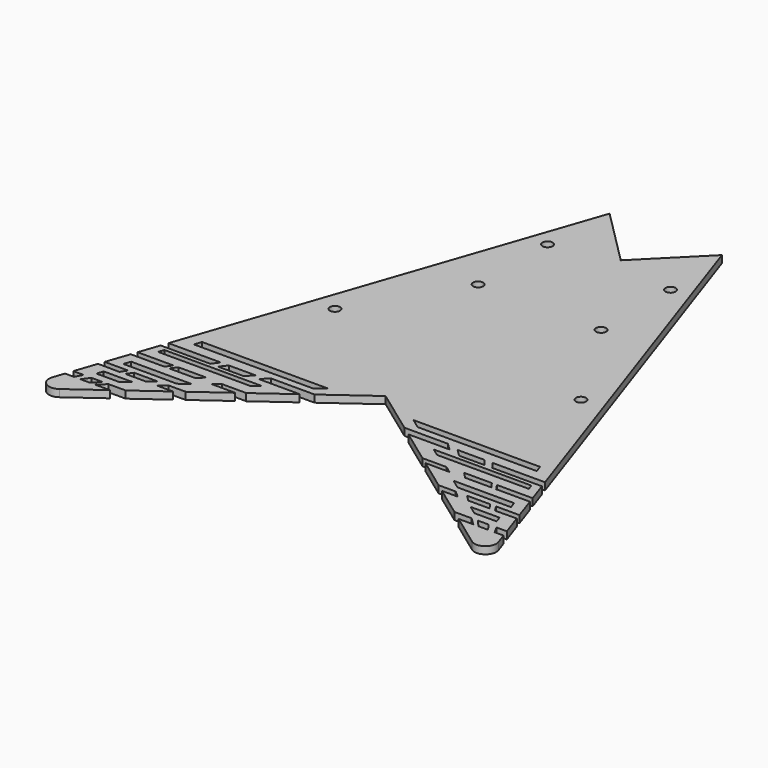
from build123d import *

# Parameters (mm, degrees)
F0_R     = 1.4
F1_DEPTH = 2
F3_DEPTH = 2.001
F4_R     = 3
F5_R     = 3
F7_DEPTH = 2.001


with BuildPart() as f1:
    # F0 (on Top) → F1 (new body)
    with BuildSketch(Plane.XY):
        Polygon((64.72135955, -47.0228201834), (0, 142.2155100196), (-64.72135955, -47.0228201834), (0, 0), align=None)
        with Locations((-34, 25)):
            Circle(F0_R, mode=Mode.SUBTRACT)
        with Locations((34, 25)):
            Circle(F0_R, mode=Mode.SUBTRACT)
        with Locations((-17, 53.2155100196)):
            Circle(F0_R, mode=Mode.SUBTRACT)
        with Locations((-17, 77.2155100196)):
            Circle(F0_R, mode=Mode.SUBTRACT)
        with Locations((17, 53.2155100196)):
            Circle(F0_R, mode=Mode.SUBTRACT)
        with Locations((17, 77.2155100196)):
            Circle(F0_R, mode=Mode.SUBTRACT)
    extrude(amount=F1_DEPTH)

    # F2 (on face) → F3 (cut, through all)
    with BuildSketch(Plane.XY.offset(2)):
        Polygon((-11.72135955, -5.0228201834), (-46.72135955, -5.0228201834), (-47.4053791086, -7.0228201834), (-14.4741233909, -7.0228201834), align=None)
        Polygon((-12.4188465721, -9.0228201834), (-24.4188465721, -9.0228201834), (-26.4198078873, -10.9094650687), (-15.0155904826, -10.9094650687), align=None)
        Polygon((-23.72135955, -13.0228201834), (-50.72135955, -13.0228201834), (-51.2508899541, -14.5711104259), (-25.8523982474, -14.5711104259), align=None)
        Polygon((-54.6096456252, -17.4572506108), (-55.1764262564, -19.1144565314), (-45.8653729736, -19.1144565314), (-44.7456995673, -17.4572506108), align=None)
        Polygon((-36.183078901, -21.7685099146), (-52.9450522033, -21.7685099146), (-53.5922657988, -23.6608932166), (-38.7877210645, -23.6608932166), align=None)
        Polygon((-57.329058215, -25.4085220489), (-57.8811639638, -27.0228201834), (-51.9252746689, -27.0915274002), (-50.8447687747, -25.4085220489), align=None)
        Polygon((-42.8185183528, -25.398144593), (-49.1967415728, -25.398144593), (-50.3631159663, -27.0228201834), (-44.4640927017, -27.0228201834), align=None)
        Polygon((-34.9575470313, -25.398144593), (-39.6975811287, -25.398144593), (-41.5776334703, -27.0228201834), (-37.1937211406, -27.0228201834), align=None)
        Polygon((-46.72135955, -29.0228201834), (-54.72135955, -29.0228201834), (-55.3310927131, -30.8056147116), (-49.1751657065, -30.8056147116), align=None)
        Polygon((-59.9332226396, -33.0228201834), (-60.6172421983, -35.0228201834), (-58.1569412289, -35.0228201834), (-57.0628715088, -33.0228201834), align=None)
        Polygon((-52.0519517882, -9.9788275021), (-52.6991653837, -11.8712108041), (-38.9741415612, -11.8712108041), (-37.5880427095, -9.9788275021), align=None)
        Polygon((-32.9459308027, -19.1144565314), (-26.3087923894, -19.1144565314), (-24.3671516029, -17.7037719259), (-31.0042900162, -17.7037719259), align=None)
        Polygon((-35.6436006209, -17.440581688), (-43.3317036365, -17.440581688), (-44.5420111982, -19.1144565314), (-37.288930104, -19.1144565314), align=None)
        Polygon((-51.8852360547, -33.0228201834), (-54.9353141808, -33.0228201834), (-56.3333206621, -35.0228201834), (-53.706107908, -35.0228201834), align=None)
        Polygon((-45.4520126634, -33.0228201834), (-50.1858113088, -33.0228201834), (-52.2623182004, -35.0228201834), (-48.2047765043, -35.0228201834), align=None)
        Polygon((-27.9032053004, -9.9788275021), (-35.3451147676, -9.9788275021), (-36.8457930443, -11.8712108041), (-29.7840517014, -11.8712108041), align=None)
        Polygon((24.3671516029, -17.7037719259), (26.3087923894, -19.1144565314), (32.9459308027, -19.1144565314), (31.0042900162, -17.7037719259), align=None)
        Polygon((46.72135955, -29.0228201834), (49.1751657065, -30.8056147116), (55.3310927131, -30.8056147116), (54.72135955, -29.0228201834), align=None)
        Polygon((54.6096456252, -17.4572506108), (44.7456995673, -17.4572506108), (45.8653729736, -19.1144565314), (55.1764262564, -19.1144565314), align=None)
        Polygon((53.5922657988, -23.6608932166), (52.9450522033, -21.7685099146), (36.183078901, -21.7685099146), (38.7877210645, -23.6608932166), align=None)
        Polygon((51.9252746689, -27.0915274002), (57.8811639638, -27.0228201834), (57.329058215, -25.4085220489), (50.8447687747, -25.4085220489), align=None)
        Polygon((51.8852360547, -33.0228201834), (53.706107908, -35.0228201834), (56.3333206621, -35.0228201834), (54.9353141808, -33.0228201834), align=None)
        Polygon((34.9575470313, -25.398144593), (37.1937211406, -27.0228201834), (41.5776334703, -27.0228201834), (39.6975811287, -25.398144593), align=None)
        Polygon((50.1858113088, -33.0228201834), (45.4520126634, -33.0228201834), (48.2047765043, -35.0228201834), (52.2623182004, -35.0228201834), align=None)
        Polygon((26.4198078873, -10.9094650687), (24.4188465721, -9.0228201834), (12.4188465721, -9.0228201834), (15.0155904826, -10.9094650687), align=None)
        Polygon((44.4640927017, -27.0228201834), (50.3631159663, -27.0228201834), (49.1967415728, -25.398144593), (42.8185183528, -25.398144593), align=None)
        Polygon((36.8457930443, -11.8712108041), (35.3451147676, -9.9788275021), (27.9032053004, -9.9788275021), (29.7840517014, -11.8712108041), align=None)
        Polygon((52.0519517882, -9.9788275021), (37.5880427095, -9.9788275021), (38.9741415612, -11.8712108041), (52.6991653837, -11.8712108041), align=None)
        Polygon((43.3317036365, -17.440581688), (35.6436006209, -17.440581688), (37.288930104, -19.1144565314), (44.5420111982, -19.1144565314), align=None)
        Polygon((47.4053791086, -7.0228201834), (46.72135955, -5.0228201834), (11.72135955, -5.0228201834), (14.4741233909, -7.0228201834), align=None)
        Polygon((51.2508899541, -14.5711104259), (50.72135955, -13.0228201834), (23.72135955, -13.0228201834), (25.8523982474, -14.5711104259), align=None)
        Polygon((60.6172421983, -35.0228201834), (59.9332226396, -33.0228201834), (57.0628715088, -33.0228201834), (58.1569412289, -35.0228201834), align=None)
    extrude(amount=-F3_DEPTH, mode=Mode.SUBTRACT)

    # F4
    f4_edges = [f1.edges().sort_by_distance(p)[0] for p in [
        (-64.72136, -47.02282, 1),
    ]]
    fillet(f4_edges, radius=F4_R)

    # F5
    f5_edges = [f1.edges().sort_by_distance(p)[0] for p in [
        (64.72136, -47.02282, 1),
    ]]
    fillet(f5_edges, radius=F5_R)

    # F6 (on face) → F7 (cut, through all)
    with BuildSketch(Plane.XY.offset(2)):
        Polygon((-15.5259804046, 96.8192045811), (0, 81.2669247389), (15.5259804046, 96.8192045811), (0, 142.2155100196), align=None)
    extrude(amount=-F7_DEPTH, mode=Mode.SUBTRACT)


solid = f1.part
